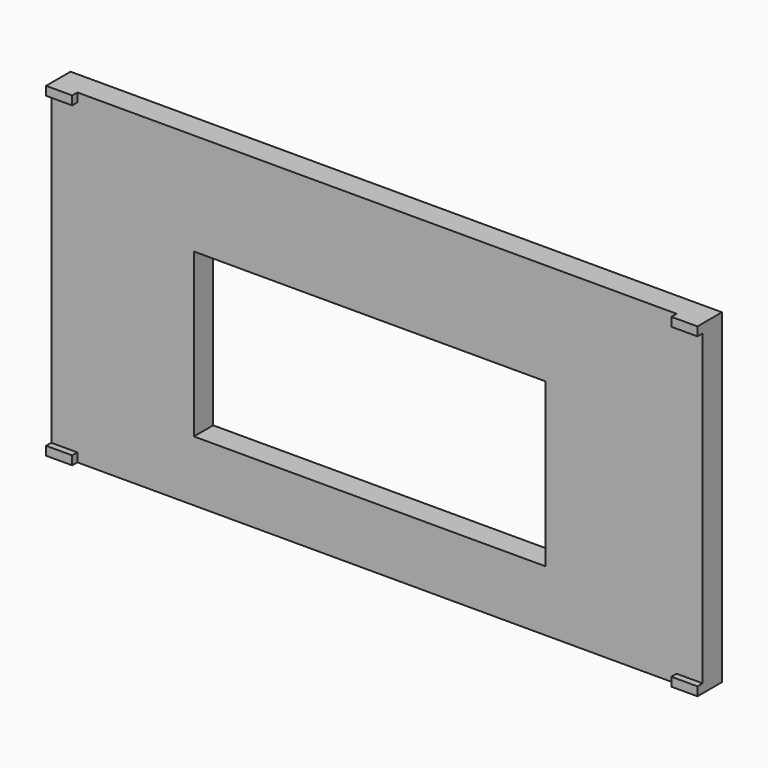
from build123d import *

# Parameters (mm, degrees)
F0_W     = 200
F0_H     = 100
F1_DEPTH = 7.4
F2_W     = 8
F2_H     = 2.7
F3_DEPTH = 2
F4_W     = 108
F4_H     = 50
F5_DEPTH = 7.401


with BuildPart() as f1:
    # F0 (on Front) → F1 (new body)
    with BuildSketch(Plane.XZ):
        with Locations((2.203826, 6.35675)):
            Rectangle(F0_W, F0_H)
    extrude(amount=F1_DEPTH)

    # F2 (on face) → F3 (join)
    with BuildSketch(Plane.XZ.offset(7.4)):
        with Locations((-93.796174, 55.00675)):
            Rectangle(F2_W, F2_H)
        with Locations((98.203826, 55.00675)):
            Rectangle(F2_W, F2_H)
        with Locations((98.203826, -42.29325)):
            Rectangle(F2_W, F2_H)
        with Locations((-93.796174, -42.29325)):
            Rectangle(F2_W, F2_H)
    extrude(amount=F3_DEPTH)

    # F4 (on face) → F5 (cut, through all)
    with BuildSketch(Plane.XZ.offset(7.4)):
        Rectangle(F4_W, F4_H)
    extrude(amount=-F5_DEPTH, mode=Mode.SUBTRACT)


solid = f1.part
